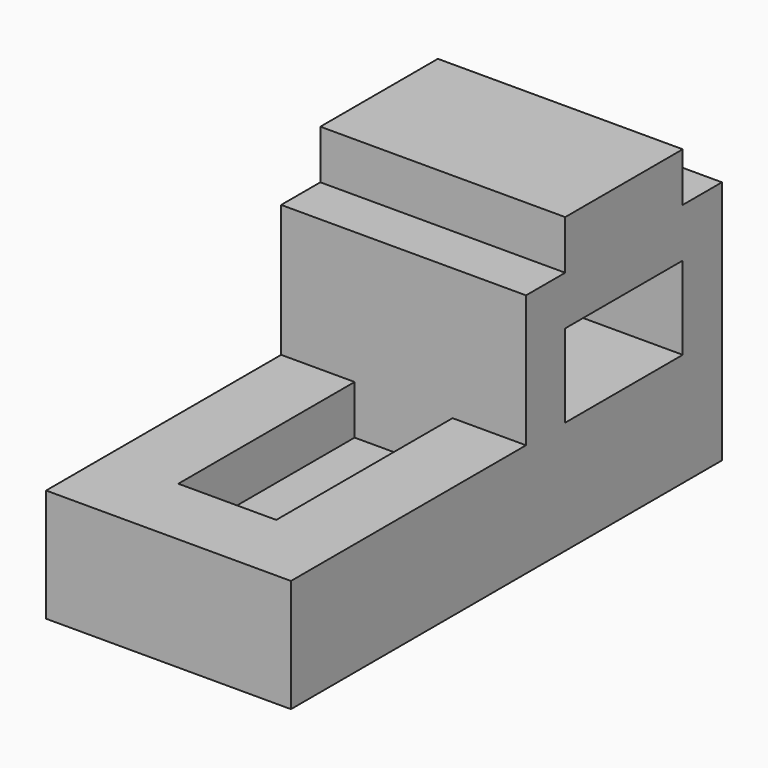
from build123d import *

# Parameters (mm, degrees)
F0_W     = 50
F0_H     = 110
F1_DEPTH = 60
F2_W     = 30
F2_H     = 16.95089
F2_W_2   = 10
F2_H_2   = 10
F3_DEPTH = 50.001
F4_W     = 20
F4_H     = 45
F5_DEPTH = 10


with BuildPart() as f1:
    # F0 (on Top) → F1 (new body)
    with BuildSketch(Plane.XY):
        Rectangle(F0_W, F0_H)
    extrude(amount=F1_DEPTH)

    # F2 (on face) → F3 (cut, through all)
    with BuildSketch(Plane.YZ.offset(25)):
        with Locations((30, 31.524555)):
            Rectangle(F2_W, F2_H)
        with Locations((50, 55)):
            Rectangle(F2_W_2, F2_H_2)
        with Locations((10, 55)):
            Rectangle(F2_W_2, F2_H_2)
        Polygon((5, 50), (5, 60), (-55, 60), (-55, 23.04911), (5, 23.04911), align=None)
    extrude(amount=-F3_DEPTH, mode=Mode.SUBTRACT)

    # F4 (on face) → F5 (cut)
    with BuildSketch(Plane.XY.offset(23.04911)):
        with Locations((0, -17.5)):
            Rectangle(F4_W, F4_H)
    extrude(amount=-F5_DEPTH, mode=Mode.SUBTRACT)


solid = f1.part
